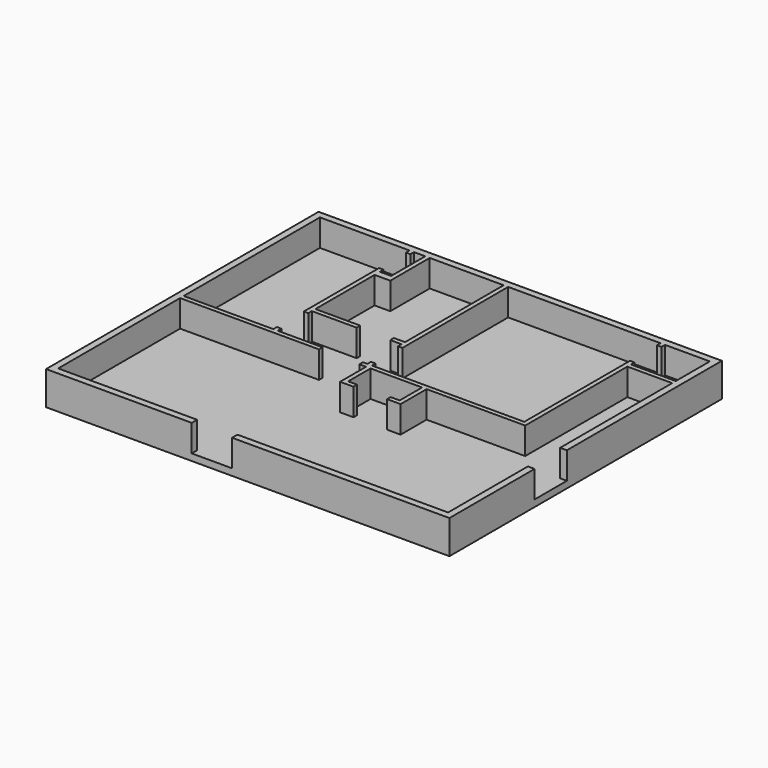
from build123d import *

# Parameters (mm, degrees)
F1_DEPTH = 609.6
F2_W     = 9144
F2_H     = 7721.6
F3_DEPTH = 152.4


with BuildPart() as f1:
    # F0 (on Top) → F1 (new body)
    with BuildSketch(Plane.XY):
        Polygon((-1574.8, 1727.2), (1574.8, 1727.2), (1574.8, 1828.8), (558.8, 1828.8), (558.8, 1930.4), (457.2, 1930.4), (457.2, 1828.8), (-1574.8, 1828.8), (-1727.2, 1828.8), (-1727.2, -1879.6), (1574.8, -1879.6), (1574.8, -1727.2), (-1574.8, -1727.2), align=None)
        Polygon((-1727.2, 5842), (-1727.2, 1828.8), (-1574.8, 1828.8), (-1574.8, 5689.6), (457.2, 5689.6), (457.2, 5588), (558.8, 5588), (558.8, 5689.6), (812.8, 5689.6), (812.8, 4724.4), (558.8, 4724.4), (558.8, 4826), (457.2, 4826), (457.2, 4724.4), (457.2, 2692.4), (558.8, 2692.4), (558.8, 2794), (1574.8, 2794), (1574.8, 2895.6), (558.8, 2895.6), (558.8, 4572), (914.4, 4572), (914.4, 5689.6), (2590.8, 5689.6), (2590.8, 2895.6), (2336.8, 2895.6), (2336.8, 2794), (2590.8, 2794), (2590.8, 2692.4), (2692.4, 2692.4), (2692.4, 5689.6), (6146.8, 5689.6), (6146.8, 5588), (6248.4, 5588), (6248.4, 5689.6), (7264.4, 5689.6), (7264.4, 4724.4), (6248.4, 4724.4), (6248.4, 4826), (6146.8, 4826), (6146.8, 1828.8), (2692.4, 1828.8), (2692.4, 1930.4), (2590.8, 1930.4), (2590.8, 1828.8), (2489.2, 1828.8), (2489.2, 1727.2), (2641.6, 1727.2), (2641.6, 990.6), (2946.4, 990.6), (2946.4, 1092.2), (2743.2, 1092.2), (2743.2, 1727.2), (3911.6, 1727.2), (3911.6, 1092.2), (3708.4, 1092.2), (3708.4, 990.6), (4013.2, 990.6), (4013.2, 1727.2), (6248.4, 1727.2), (6248.4, 3430.751888), (6248.4, 4622.8), (7264.4, 4622.8), (7264.4, 1447.8), (7416.8, 1447.8), (7416.8, 5842), (2590.8, 5842), (1396.881529, 5842), align=None)
        Polygon((7264.4, -1727.2), (2489.2, -1727.2), (2489.2, -1879.6), (7416.8, -1879.6), (7416.8, 533.4), (7264.4, 533.4), align=None)
    extrude(amount=F1_DEPTH)

    # F2 (on face) → F3 (join)
    with BuildSketch(Plane(origin=(0, 0, 0), x_dir=(1, 0, 0), z_dir=(0, 0, -1))):
        with Locations((2844.8, -1981.2)):
            Rectangle(F2_W, F2_H)
    extrude(amount=F3_DEPTH)


solid = f1.part
